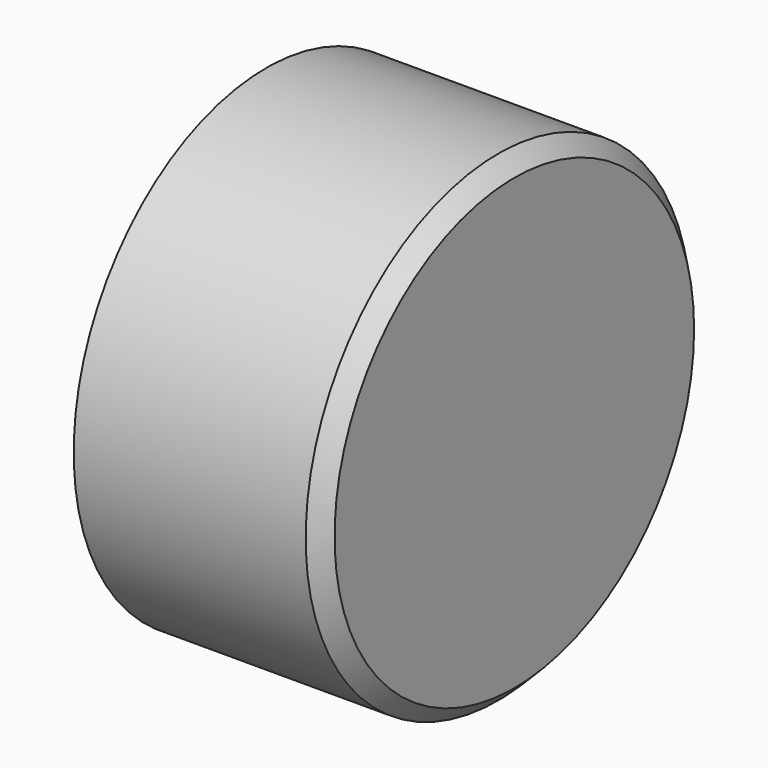
from build123d import *

# Parameters (mm, degrees)
F0_R      = 33
F1_DEPTH  = 9
F2_SIZE   = 2.2
F1_FACE_R = 33
F3_DEPTH  = 25


with BuildPart() as f1:
    # F0 (on Right) → F1 (new body)
    with BuildSketch(Plane.YZ):
        Circle(F0_R)
    extrude(amount=F1_DEPTH)

    # F2
    f2_edges = [f1.edges().sort_by_distance(p)[0] for p in [
        (9, -33, 0),
    ]]
    chamfer(f2_edges, length=F2_SIZE)

    # F1_face (on face) → F3 (join)
    with BuildSketch(Plane(origin=(0, 0, 0), x_dir=(0, 1, 0), z_dir=(-1, 0, 0))):
        Circle(F1_FACE_R)
    extrude(amount=F3_DEPTH)


solid = f1.part
